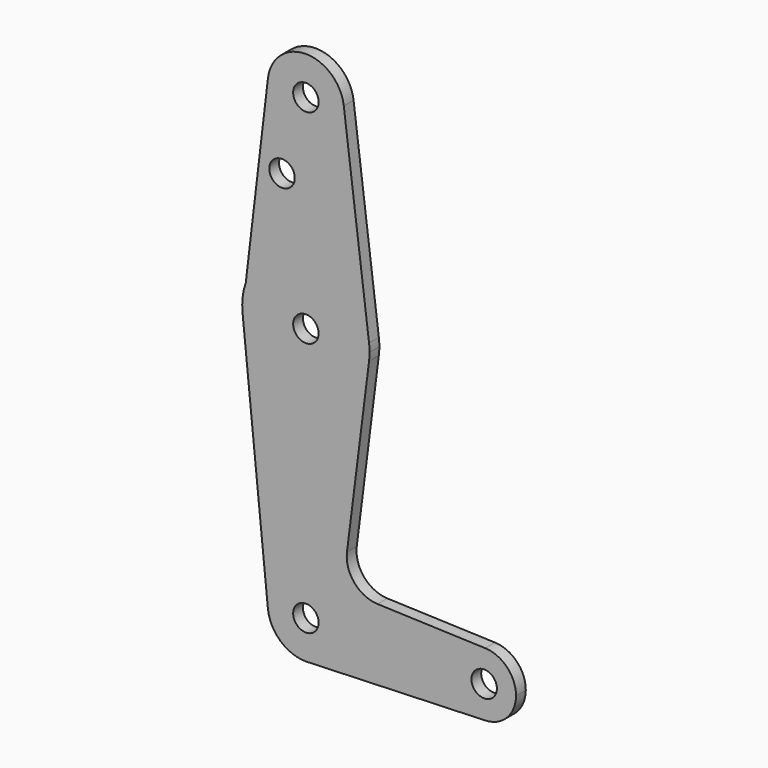
from build123d import *

# Parameters (mm, degrees)
F0_R     = 3.175
F1_DEPTH = 3.048


with BuildPart() as f1:
    # F0 (on Front) → F1 (new body)
    with BuildSketch(Plane.XZ):
        with BuildLine():
            ThreePointArc((44.732405, -7.932475), (50.161633, -5.51191), (52.3875, 0))
            ThreePointArc((52.3875, 0), (50.162007, 5.511523), (44.733482, 7.932436))
            ThreePointArc((44.733482, 7.932436), (36.5125, 0.000539), (44.732405, -7.932475))
        make_face()
        with Locations((44.45, 0)):
            Circle(F0_R, mode=Mode.SUBTRACT)
        with BuildLine():
            ThreePointArc((44.732405, -7.932475), (36.5125, 0.000539), (44.733482, 7.932436))
            Line((44.733482, 7.932436), (17.850784, 8.893145))
            ThreePointArc((17.850784, 8.893145), (12.079103, 11.687042), (10.246875, 17.832049))
            Line((10.246875, 17.832049), (15.750488, 61.515625))
            ThreePointArc((15.750488, 61.515625), (-0.199705, 47.626256), (-15.795426, 61.9125))
            Line((-15.795426, 61.9125), (-9.477255, -0.9525))
            ThreePointArc((-9.477255, -0.9525), (-0.476848, 9.513056), (9.525, 0))
            ThreePointArc((9.525, 0), (6.970557, -6.491299), (0.677344, -9.500886))
            Line((0.677344, -9.500886), (44.732405, -7.932475))
        make_face()
        with BuildLine():
            Line((0, -9.525), (0.677344, -9.500886))
            ThreePointArc((0.677344, -9.500886), (6.970557, -6.491299), (9.525, 0))
            ThreePointArc((9.525, 0), (-0.476848, 9.513056), (-9.477255, -0.9525))
            ThreePointArc((-9.477255, -0.9525), (-6.389564, -7.063929), (0, -9.525))
        make_face()
        Circle(F0_R, mode=Mode.SUBTRACT)
        with BuildLine():
            ThreePointArc((0, -9.525), (0.338886, -9.51897), (0.677344, -9.500886))
            Line((0.677344, -9.500886), (0, -9.525))
        make_face()
        with BuildLine():
            ThreePointArc((-15.795426, 61.9125), (-0.199705, 47.626256), (15.750488, 61.515625))
            ThreePointArc((15.750488, 61.515625), (15.843841, 62.505861), (15.875, 63.5))
            ThreePointArc((15.875, 63.5), (15.843841, 64.494139), (15.750488, 65.484375))
            ThreePointArc((15.750488, 65.484375), (1.668448, 79.28708), (-14.987732, 68.732925))
            Line((-14.987732, 68.732925), (-15.795426, 61.9125))
        make_face()
        with Locations((0, 63.5)):
            Circle(F0_R, mode=Mode.SUBTRACT)
        with BuildLine():
            ThreePointArc((-14.987732, 68.732925), (-15.764842, 65.366915), (-15.795426, 61.9125))
            Line((-15.795426, 61.9125), (-14.987732, 68.732925))
        make_face()
        with BuildLine():
            Line((-9.458905, 115.420149), (-14.987732, 68.732925))
            ThreePointArc((-14.987732, 68.732925), (1.668448, 79.28708), (15.750488, 65.484375))
            Line((15.750488, 65.484375), (9.450293, 115.490625))
            ThreePointArc((9.450293, 115.490625), (9.506305, 114.896483), (9.525, 114.3))
            ThreePointArc((9.525, 114.3), (-0.561049, 104.791538), (-9.458905, 115.420149))
        make_face()
        with Locations((-5.951623, 95.66649)):
            Circle(F0_R, mode=Mode.SUBTRACT)
        with BuildLine():
            ThreePointArc((9.450293, 115.490625), (-0.0355, 123.824934), (-9.458905, 115.420149))
            ThreePointArc((-9.458905, 115.420149), (-0.561049, 104.791538), (9.525, 114.3))
            ThreePointArc((9.525, 114.3), (9.506305, 114.896483), (9.450293, 115.490625))
        make_face()
        with Locations((0, 114.3)):
            Circle(F0_R, mode=Mode.SUBTRACT)
    extrude(amount=F1_DEPTH)


solid = f1.part
